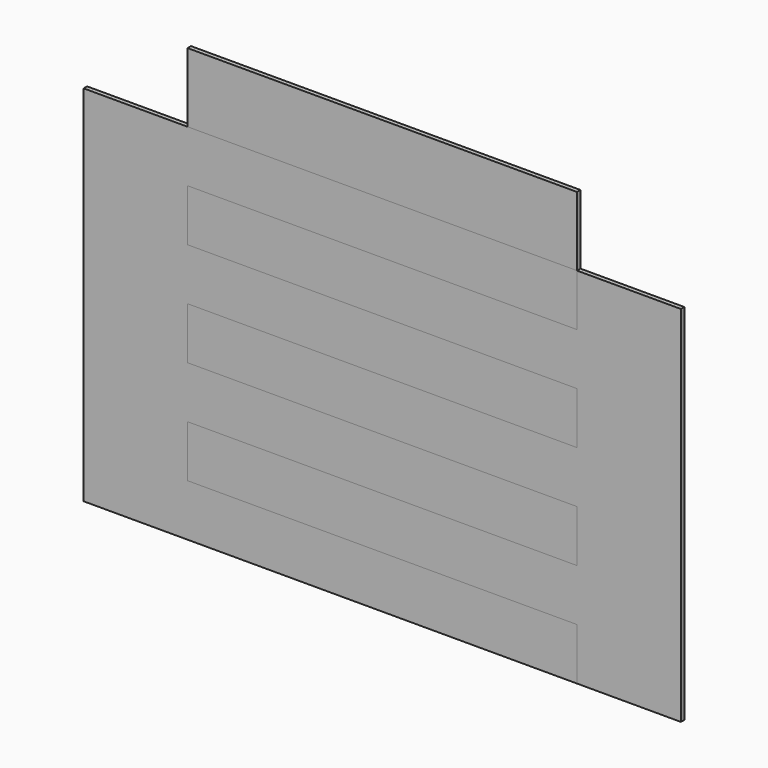
from build123d import *

# Parameters (mm, degrees)
F0_W     = 914.4
F0_H     = 177.8
F0_H_2   = 279.4
F0_W_2   = 685.8
F0_H_3   = 25.4
F1_DEPTH = 25.4
F2_DEPTH = 25.4
F0_W_3   = 2286
F0_H_4   = 101.6
F3_DEPTH = 25.4


with BuildPart() as f1:
    # F0 (on Front) → F1 (new body)
    with BuildSketch(Plane.XZ):
        Polygon((1143, 584.2), (1143, 863.6), (-1143, 863.6), (-1752.6, 863.6), (-1752.6, -1270), (-1143, -1270), (-1143, -1244.6), (-457.2, -1244.6), (-457.2, -965.2), (-1143, -965.2), (-1143, -939.8), (-1143, -660.4), (-1143, -635), (-457.2, -635), (-457.2, -355.6), (-1143, -355.6), (-1143, -330.2), (-1143, -50.8), (-1143, -25.4), (-457.2, -25.4), (-457.2, 254), (-1143, 254), (-1143, 279.4), (-1143, 558.8), (-1143, 584.2), (-457.2, 584.2), (-457.2, 762), (457.2, 762), (457.2, 584.2), align=None)
        with Locations((0, 673.1)):
            Rectangle(F0_W, F0_H)
        with Locations((0, 114.3)):
            Rectangle(F0_W, F0_H_2)
        with Locations((800.1, 114.3)):
            Rectangle(F0_W_2, F0_H_2)
        with Locations((0, -495.3)):
            Rectangle(F0_W, F0_H_2)
        with Locations((800.1, -495.3)):
            Rectangle(F0_W_2, F0_H_2)
        with Locations((0, -1104.9)):
            Rectangle(F0_W, F0_H_2)
        with Locations((800.1, -1104.9)):
            Rectangle(F0_W_2, F0_H_2)
        with Locations((-800.1, -1257.3)):
            Rectangle(F0_W_2, F0_H_3)
        with Locations((0, -1257.3)):
            Rectangle(F0_W, F0_H_3)
        with Locations((800.1, -1257.3)):
            Rectangle(F0_W_2, F0_H_3)
        with Locations((-800.1, -647.7)):
            Rectangle(F0_W_2, F0_H_3)
        with Locations((0, -647.7)):
            Rectangle(F0_W, F0_H_3)
        with Locations((800.1, -647.7)):
            Rectangle(F0_W_2, F0_H_3)
        with Locations((-800.1, -38.1)):
            Rectangle(F0_W_2, F0_H_3)
        with Locations((0, -38.1)):
            Rectangle(F0_W, F0_H_3)
        with Locations((800.1, -38.1)):
            Rectangle(F0_W_2, F0_H_3)
        with Locations((-800.1, 571.5)):
            Rectangle(F0_W_2, F0_H_3)
        with Locations((0, 571.5)):
            Rectangle(F0_W, F0_H_3)
        with Locations((800.1, 571.5)):
            Rectangle(F0_W_2, F0_H_3)
    extrude(amount=F1_DEPTH)


with BuildPart() as f2:
    # F0 (on Front) → F2 (new body)
    with BuildSketch(Plane.XZ):
        Polygon((1752.6, 863.6), (1143, 863.6), (1143, 584.2), (1143, 558.8), (457.2, 558.8), (457.2, 279.4), (1143, 279.4), (1143, 254), (1143, -25.4), (1143, -50.8), (457.2, -50.8), (457.2, -330.2), (1143, -330.2), (1143, -355.6), (1143, -635), (1143, -660.4), (457.2, -660.4), (457.2, -939.8), (1143, -939.8), (1143, -965.2), (1143, -1244.6), (1143, -1270), (1752.6, -1270), align=None)
        with Locations((0, 419.1)):
            Rectangle(F0_W, F0_H_2)
        with Locations((-800.1, 419.1)):
            Rectangle(F0_W_2, F0_H_2)
        with Locations((-800.1, -190.5)):
            Rectangle(F0_W_2, F0_H_2)
        with Locations((0, -190.5)):
            Rectangle(F0_W, F0_H_2)
        with Locations((-800.1, -800.1)):
            Rectangle(F0_W_2, F0_H_2)
        with Locations((0, -800.1)):
            Rectangle(F0_W, F0_H_2)
        with Locations((-800.1, 266.7)):
            Rectangle(F0_W_2, F0_H_3)
        with Locations((0, 266.7)):
            Rectangle(F0_W, F0_H_3)
        with Locations((800.1, 266.7)):
            Rectangle(F0_W_2, F0_H_3)
        with Locations((-800.1, -342.9)):
            Rectangle(F0_W_2, F0_H_3)
        with Locations((0, -342.9)):
            Rectangle(F0_W, F0_H_3)
        with Locations((800.1, -342.9)):
            Rectangle(F0_W_2, F0_H_3)
        with Locations((-800.1, -952.5)):
            Rectangle(F0_W_2, F0_H_3)
        with Locations((0, -952.5)):
            Rectangle(F0_W, F0_H_3)
        with Locations((800.1, -952.5)):
            Rectangle(F0_W_2, F0_H_3)
    extrude(amount=F2_DEPTH)


with BuildPart() as f3:
    # F0 (on Front) → F3 (new body)
    with BuildSketch(Plane.XZ):
        with Locations((0, 1028.7)):
            Rectangle(F0_W_3, F0_H_2)
        with Locations((0, 1219.2)):
            Rectangle(F0_W_3, F0_H_4)
        with Locations((0, 876.3)):
            Rectangle(F0_W_3, F0_H_3)
    extrude(amount=F3_DEPTH)


solid = Compound([f1.part, f2.part, f3.part])
